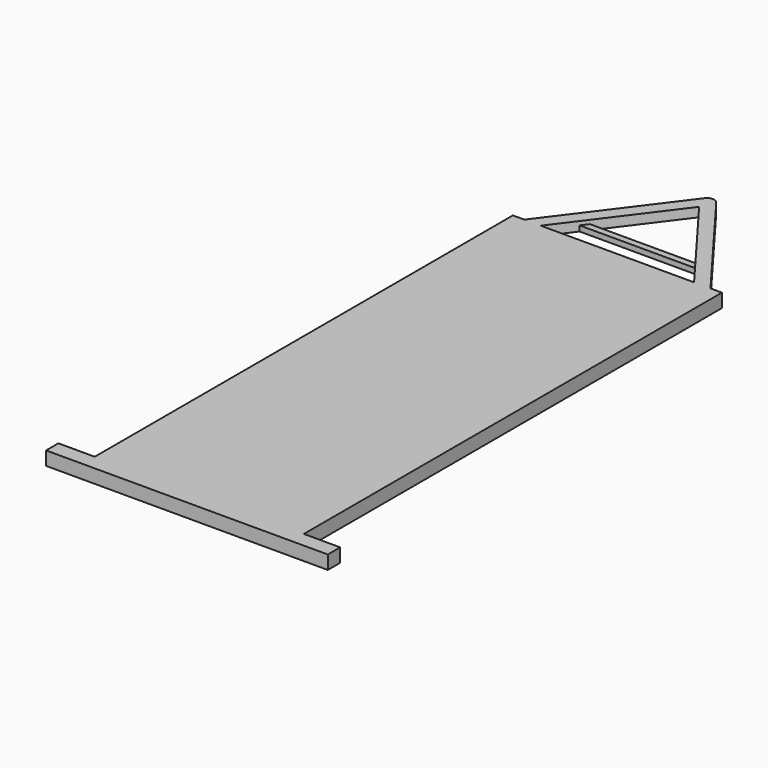
from build123d import *

# Parameters (mm, degrees)
F0_W      = 1435.1926669478
F0_H      = 95.2825993299
F1_DEPTH  = 3759.2
F2_DEPTH  = 25.4
F3_W      = 107.992552948
F3_H      = 95.2825993299
F4_DEPTH  = 254
F5_W      = 107.4568264008
F5_H      = 95.2825993299
F6_DEPTH  = 254
F8_DEPTH  = 64.3732398748
F9_R      = 50.8
F11_DEPTH = 37.7572048455


with BuildPart() as f1:
    # F0 (on Front) → F1 (new body)
    with BuildSketch(Plane.XZ):
        with Locations((607.4394695461, -68.8994899392)):
            Rectangle(F0_W, F0_H)
    extrude(amount=F1_DEPTH)

    # F2 (add): a face of the model
    f2_faces = [f1.faces().sort_by_distance(p)[0] for p in [
        (1325.03580302, -1879.6, -68.8994899392),
    ]]
    extrude(f2_faces, amount=F2_DEPTH)

    # F3 (on face) → F4 (join)
    with BuildSketch(Plane.YZ.offset(1350.43580302)):
        with Locations((-3705.203723526, -68.8994899392)):
            Rectangle(F3_W, F3_H)
    extrude(amount=F4_DEPTH)

    # F5 (on face) → F6 (join)
    with BuildSketch(Plane(origin=(-110.1568639278, 0, 0), x_dir=(0, -1, 0), z_dir=(-1, 0, 0))):
        with Locations((3705.4715867996, -68.8994899392)):
            Rectangle(F5_W, F5_H)
    extrude(amount=F6_DEPTH)

    # F7 (on face) → F8 (join)
    with BuildSketch(Plane.XY.offset(-21.2581902742)):
        Polygon((1155.8323002696, 0), (1270.5040539747, 0), (620.1394695461, 866.7032718658), (-30.2251148825, 0), (84.4466388226, 0), (620.1394695461, 713.8868570328), align=None)
    extrude(amount=-F8_DEPTH)

    # F9
    f9_edges = [f1.edges().sort_by_distance(p)[0] for p in [
        (620.13947, 866.703272, -53.44481),
    ]]
    fillet(f9_edges, radius=F9_R)

    # F10 (on face) → F11 (join)
    with BuildSketch(Plane(origin=(0, 0, -85.6314301491), x_dir=(1, 0, 0), z_dir=(0, 0, -1))):
        Polygon((1024.341010293, -175.2308381685), (215.9379287991, -175.2308381685), (250.8901155181, -221.809596166), (989.388823574, -221.809596166), align=None)
    extrude(amount=-F11_DEPTH)


solid = f1.part
